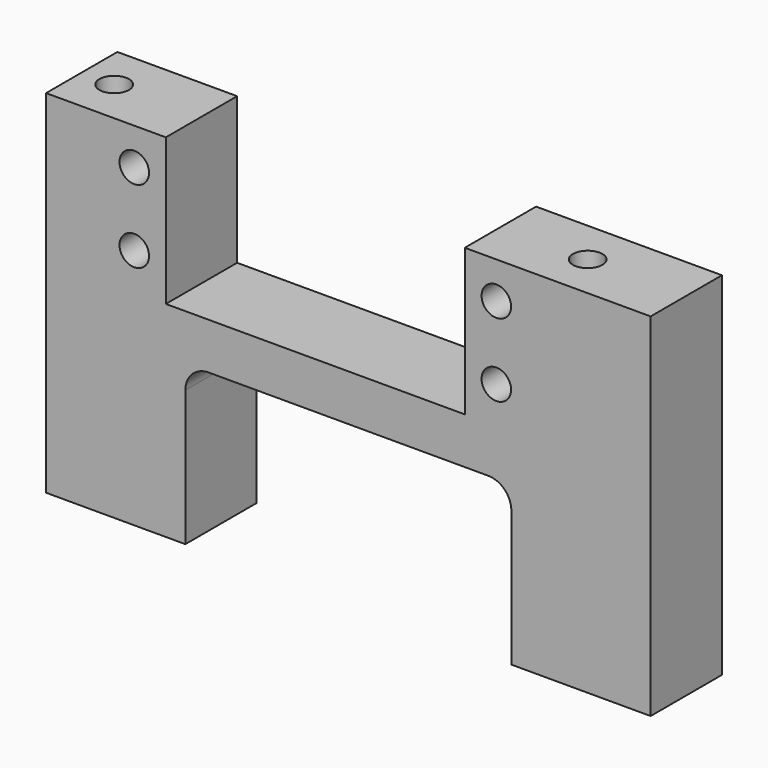
from build123d import *

# Parameters (mm, degrees)
F0_R     = 2.0193
F1_DEPTH = 6.096
F2_R     = 2.0193
F3_DEPTH = 19.05
F4_R     = 1.6002
F4_R_2   = 2.0193
F5_DEPTH = 12.7
F6_R     = 3.175


with BuildPart() as f1:
    # F0 (on Front) → F1 (new body, symmetric)
    with BuildSketch(Plane.XZ):
        Polygon((-36.83, 48.133), (-36.83, 0), (-17.78, 0), (-17.78, 21.717), (26.8224, 21.717), (26.8224, 0), (45.8724, 0), (45.8724, 48.133), (20.447, 48.133), (20.447, 28.067), (-20.447, 28.067), (-20.447, 48.133), align=None)
        with Locations((-24.765, 33.0962)):
            Circle(F0_R, mode=Mode.SUBTRACT)
        with Locations((-24.765, 43.1038)):
            Circle(F0_R, mode=Mode.SUBTRACT)
        with Locations((24.765, 33.0962)):
            Circle(F0_R, mode=Mode.SUBTRACT)
        with Locations((24.765, 43.1038)):
            Circle(F0_R, mode=Mode.SUBTRACT)
    extrude(amount=F1_DEPTH, both=True)

    # F2 (on face) → F3 (cut)
    with BuildSketch(Plane.XY.offset(48.133)):
        with Locations((-32.385, 0)):
            Circle(F2_R)
        with Locations((32.385, 0)):
            Circle(F2_R)
    extrude(amount=-F3_DEPTH, mode=Mode.SUBTRACT)

    # F4 (on face) → F5 (cut)
    with BuildSketch(Plane(origin=(0, 0, 0), x_dir=(1, 0, 0), z_dir=(0, 0, -1))):
        with Locations((39.5224, 0)):
            Circle(F4_R)
        with Locations((31.9024, 0)):
            Circle(F4_R_2)
        with Locations((-22.86, 0)):
            Circle(F4_R_2)
        with Locations((-30.48, 0)):
            Circle(F4_R)
    extrude(amount=-F5_DEPTH, mode=Mode.SUBTRACT)

    # F6
    f6_edges = [f1.edges().sort_by_distance(p)[0] for p in [
        (-17.78, 0, 21.717),
        (26.8224, 0, 21.717),
    ]]
    fillet(f6_edges, radius=F6_R)


solid = f1.part
